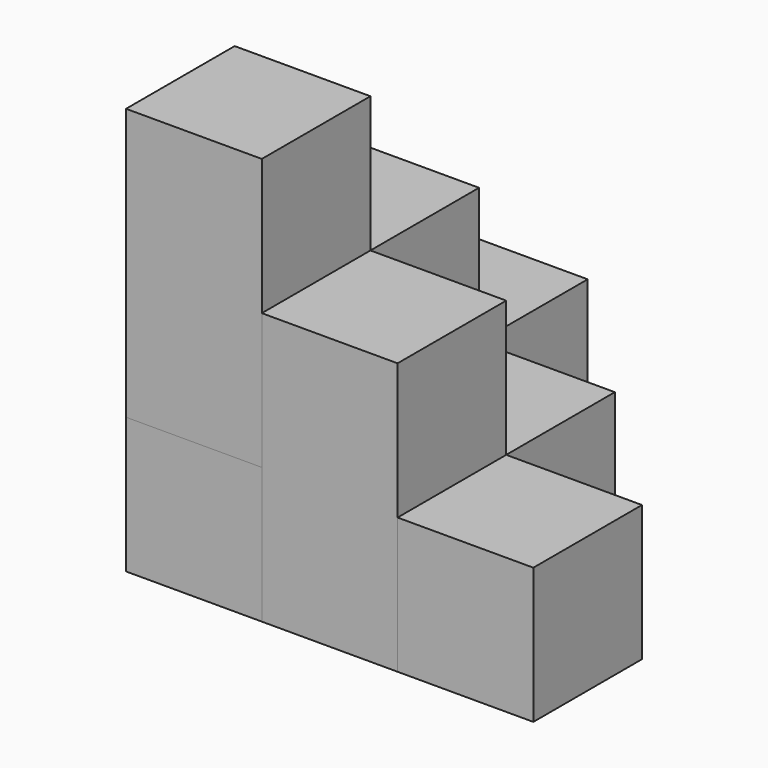
from build123d import *

# Parameters (mm, degrees)
BOX_W        = 10
BOX_H        = 10
BOX_DEPTH    = 30
BOX001_W     = 10
BOX001_H     = 10
BOX001_DEPTH = 20
BOX002_W     = 10
BOX002_H     = 20
BOX002_DEPTH = 10
BOX003_W     = 10
BOX003_H     = 10
BOX003_DEPTH = 10
BOX004_W     = 10
BOX004_H     = 10
BOX004_DEPTH = 10
BOX005_W     = 10
BOX005_H     = 10
BOX005_DEPTH = 10
BOX006_W     = 10
BOX006_H     = 10
BOX006_DEPTH = 20


with BuildPart() as cub:
    # Box → Box (new body)
    with BuildSketch(Plane.XY):
        with Locations((5, 5)):
            Rectangle(BOX_W, BOX_H)
    extrude(amount=BOX_DEPTH)


with BuildPart() as cub001:
    # Box001 → Box001 (new body)
    with BuildSketch(Plane(origin=(0, 10, 0), x_dir=(1, 0, 0), z_dir=(0, 0, 1))):
        with Locations((5, 5)):
            Rectangle(BOX001_W, BOX001_H)
    extrude(amount=BOX001_DEPTH)


with BuildPart() as cub002:
    # Box002 → Box002 (new body)
    with BuildSketch(Plane(origin=(10, 0, 0), x_dir=(1, 0, 0), z_dir=(0, 0, 1))):
        with Locations((5, 10)):
            Rectangle(BOX002_W, BOX002_H)
    extrude(amount=BOX002_DEPTH)


with BuildPart() as cub003:
    # Box003 → Box003 (new body)
    with BuildSketch(Plane(origin=(20, 0, 0), x_dir=(1, 0, 0), z_dir=(0, 0, 1))):
        with Locations((5, 5)):
            Rectangle(BOX003_W, BOX003_H)
    extrude(amount=BOX003_DEPTH)


with BuildPart() as cub004:
    # Box004 → Box004 (new body)
    with BuildSketch(Plane(origin=(0, 20, 0), x_dir=(1, 0, 0), z_dir=(0, 0, 1))):
        with Locations((5, 5)):
            Rectangle(BOX004_W, BOX004_H)
    extrude(amount=BOX004_DEPTH)


with BuildPart() as cub005:
    # Box005 → Box005 (new body)
    with BuildSketch(Plane.XY):
        with Locations((5, 5)):
            Rectangle(BOX005_W, BOX005_H)
    extrude(amount=BOX005_DEPTH)


with BuildPart() as cub006:
    # Box006 → Box006 (new body)
    with BuildSketch(Plane(origin=(10, 0, 0), x_dir=(1, 0, 0), z_dir=(0, 0, 1))):
        with Locations((5, 5)):
            Rectangle(BOX006_W, BOX006_H)
    extrude(amount=BOX006_DEPTH)


solid = Compound([cub.part, cub001.part, cub002.part, cub003.part, cub004.part, cub005.part, cub006.part])
